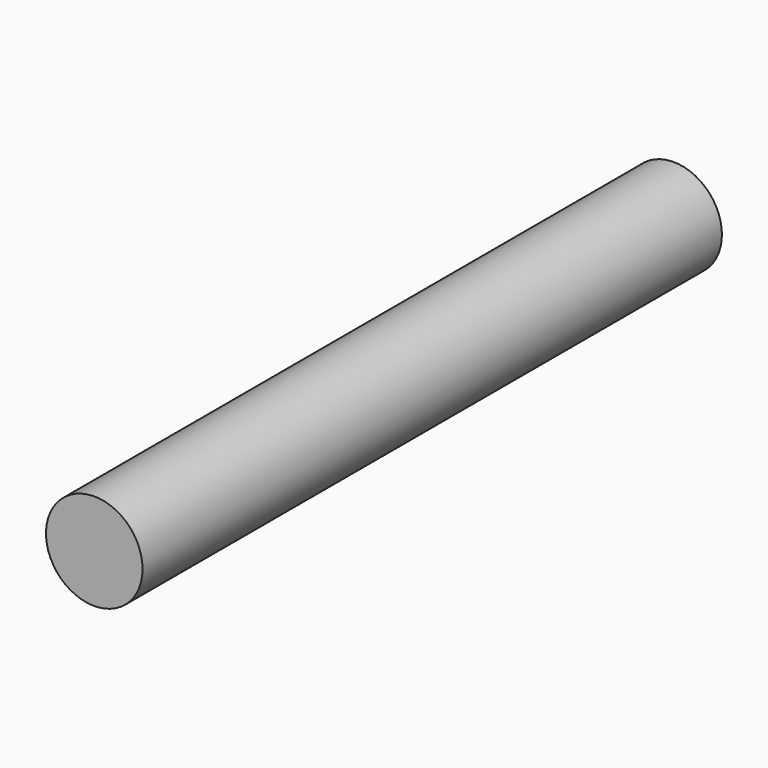
from build123d import *

# Parameters (mm, degrees)
F0_R      = 10
F1_DEPTH  = 25
F1_FACE_R = 10
F2_DEPTH  = 25
F2_FACE_R = 10
F3_DEPTH  = 100


with BuildPart() as f1:
    # F0 (on Front) → F1 (new body)
    with BuildSketch(Plane.XZ):
        Circle(F0_R)
    extrude(amount=F1_DEPTH)

    # F1_face (on face) → F2 (join)
    with BuildSketch(Plane(origin=(0, 0, 0), x_dir=(1, 0, 0), z_dir=(0, 1, 0))):
        Circle(F1_FACE_R)
        Circle(F1_FACE_R)
    extrude(amount=F2_DEPTH)

    # F2_face (on face) → F3 (join)
    with BuildSketch(Plane(origin=(0, 25, 0), x_dir=(1, 0, 0), z_dir=(0, 1, 0))):
        Circle(F2_FACE_R)
    extrude(amount=F3_DEPTH)


solid = f1.part
